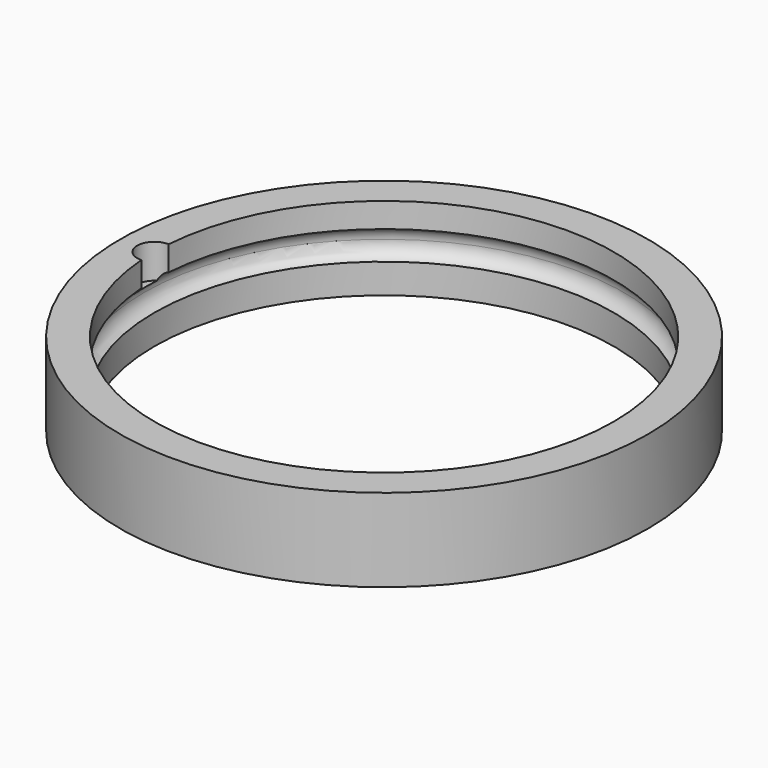
from build123d import *

# Parameters (mm, degrees)
CYLINDER016_R               = 1.5
CYLINDER016_DEPTH           = 23
BOX007_W                    = 8
BOX007_H                    = 5.6
BOX007_DEPTH                = 2
COMPOUND024_PLACEMENT_ANGLE = 45
COMPOUND025_PLACEMENT_ANGLE = 90
COMPOUND026_PLACEMENT_ANGLE = 135
COMPOUND027_PLACEMENT_ANGLE = 180
COMPOUND028_PLACEMENT_ANGLE = 225
COMPOUND029_PLACEMENT_ANGLE = 90
COMPOUND030_PLACEMENT_ANGLE = 45
CYLINDER006_R               = 3.5
CYLINDER006_DEPTH           = 10
TORUS001_R                  = 3.1
TUBE002_R                   = 54
TUBE002_R_2                 = 47
TUBE002_DEPTH               = 17


with BuildPart() as obj1:
    # Cylinder016 → Cylinder016 (new body)
    with BuildSketch(Plane(origin=(59, 0, -1), x_dir=(1, 0, 0), z_dir=(0, 0, 1))):
        Circle(CYLINDER016_R)
    extrude(amount=CYLINDER016_DEPTH)


with BuildPart() as krychle007:
    # Box007 → Box007 (new body)
    with BuildSketch(Plane(origin=(55, -2.8, 22), x_dir=(1, 0, 0), z_dir=(0, 0, 1))):
        with Locations((4, 2.8)):
            Rectangle(BOX007_W, BOX007_H)
    extrude(amount=BOX007_DEPTH)


with BuildPart() as compound024:
    # Compound024 base: copy of Krychle007
    add(krychle007.part)

    # Compound024: union obj1
    add(obj1.part)


with BuildPart() as compound024_1:
    # Compound024 placement: moved
    add(compound024.part.moved(Location((-6.363961, -6.363961, 0))).rotate(Axis((-6.363961, -6.363961, 0), (0, 0, 1)), COMPOUND024_PLACEMENT_ANGLE))


with BuildPart() as compound025:
    # Compound025 base: copy of Krychle007
    add(krychle007.part)

    # Compound025: union obj1
    add(obj1.part)


with BuildPart() as compound025_1:
    # Compound025 placement: moved
    add(compound025.part.moved(Location((0, -9, 0))).rotate(Axis((0, -9, 0), (0, 0, 1)), COMPOUND025_PLACEMENT_ANGLE))


with BuildPart() as compound026:
    # Compound026 base: copy of Krychle007
    add(krychle007.part)

    # Compound026: union obj1
    add(obj1.part)


with BuildPart() as compound026_1:
    # Compound026 placement: moved
    add(compound026.part.moved(Location((6.363961, -6.363961, 0))).rotate(Axis((6.363961, -6.363961, 0), (0, 0, 1)), COMPOUND026_PLACEMENT_ANGLE))


with BuildPart() as compound027:
    # Compound027 base: copy of Krychle007
    add(krychle007.part)

    # Compound027: union obj1
    add(obj1.part)


with BuildPart() as compound027_1:
    # Compound027 placement: moved
    add(compound027.part.moved(Location((9, 0, 0))).rotate(Axis((9, 0, 0), (0, 0, 1)), COMPOUND027_PLACEMENT_ANGLE))


with BuildPart() as compound028:
    # Compound028 base: copy of Krychle007
    add(krychle007.part)

    # Compound028: union obj1
    add(obj1.part)


with BuildPart() as compound028_1:
    # Compound028 placement: moved
    add(compound028.part.moved(Location((6.363961, 6.363961, 0))).rotate(Axis((6.363961, 6.363961, 0), (0, 0, 1)), COMPOUND028_PLACEMENT_ANGLE))


with BuildPart() as compound029:
    # Compound029 base: copy of Krychle007
    add(krychle007.part)

    # Compound029: union obj1
    add(obj1.part)


with BuildPart() as compound029_1:
    # Compound029 placement: moved
    add(compound029.part.moved(Location((0, 9, 0))).rotate(Axis((0, 9, 0), (0, 0, -1)), COMPOUND029_PLACEMENT_ANGLE))


with BuildPart() as compound030:
    # Compound030 base: copy of Krychle007
    add(krychle007.part)

    # Compound030: union obj1
    add(obj1.part)


with BuildPart() as compound030_1:
    # Compound030 placement: moved
    add(compound030.part.moved(Location((-6.363961, 6.363961, 0))).rotate(Axis((-6.363961, 6.363961, 0), (0, 0, -1)), COMPOUND030_PLACEMENT_ANGLE))


with BuildPart() as compound031:
    # Compound023 base: copy of Krychle007
    add(krychle007.part)

    # Compound023: union obj1
    add(obj1.part)


with BuildPart() as compound031_1:
    # Compound023 placement: moved
    add(compound031.part.moved(Location((-9, 0, 0))))

    # Compound031: union Compound024, Compound025, Compound026, Compound027, Compound028, Compound029, Compound030
    add(compound024_1.part)
    add(compound025_1.part)
    add(compound026_1.part)
    add(compound027_1.part)
    add(compound028_1.part)
    add(compound029_1.part)
    add(compound030_1.part)


with BuildPart() as compound031_2:
    # Compound031 placement: moved
    add(compound031_1.part.moved(Location((0, 200, 0))))


with BuildPart() as obj2:
    # Cylinder006 → Cylinder006 (new body)
    with BuildSketch(Plane(origin=(-47, 0, 30), x_dir=(1, 0, 0), z_dir=(0, 0, 1))):
        Circle(CYLINDER006_R)
    extrude(amount=CYLINDER006_DEPTH)


with BuildPart() as obj3:
    # Torus001 → Torus001 (revolve)
    with BuildSketch(Plane(origin=(0, 0, 29), x_dir=(1, 0, 0), z_dir=(0, -1, 0))):
        with Locations((46, 0)):
            Circle(TORUS001_R)
    revolve(axis=Axis((0, 0, 29), (0, 0, 1)))


with BuildPart() as cut015:
    # Tube002 → Tube002 (new body)
    with BuildSketch(Plane.XY.offset(20)):
        Circle(TUBE002_R)
        Circle(TUBE002_R_2, mode=Mode.SUBTRACT)
    extrude(amount=TUBE002_DEPTH)

    # Cut009: cut obj3
    add(obj3.part, mode=Mode.SUBTRACT)

    # Cut010: cut obj2
    add(obj2.part, mode=Mode.SUBTRACT)

    # Cut015: cut Compound031
    add(compound031_2.part, mode=Mode.SUBTRACT)


solid = cut015.part
